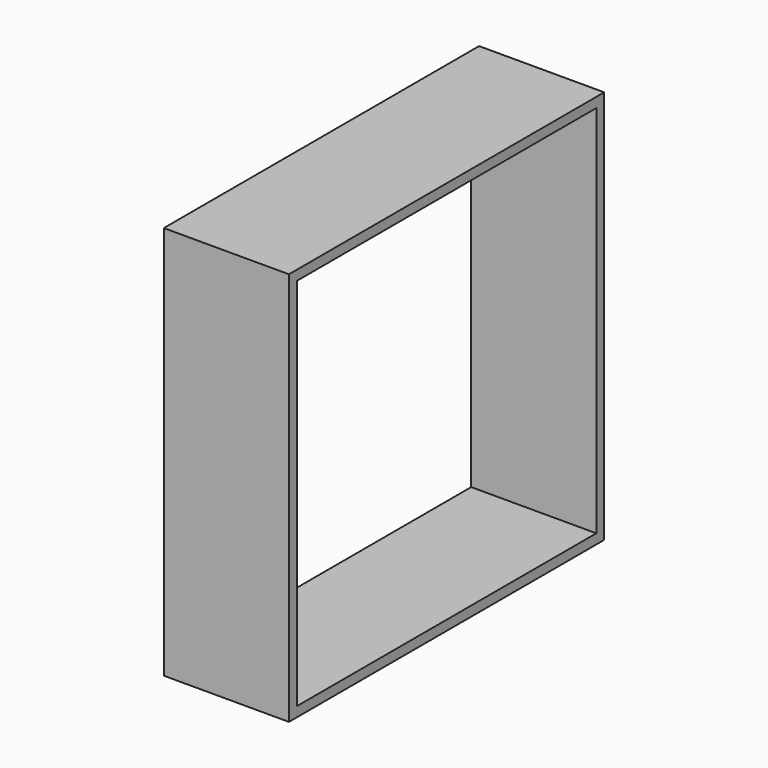
from build123d import *

# Parameters (mm, degrees)
F0_W     = 80
F0_H     = 80
F0_W_2   = 76
F0_H_2   = 76
F1_DEPTH = 25.4


with BuildPart() as f1:
    # F0 (on Right) → F1 (new body)
    with BuildSketch(Plane.YZ):
        Rectangle(F0_W, F0_H)
        Rectangle(F0_W_2, F0_H_2, mode=Mode.SUBTRACT)
    extrude(amount=-F1_DEPTH)


solid = f1.part
